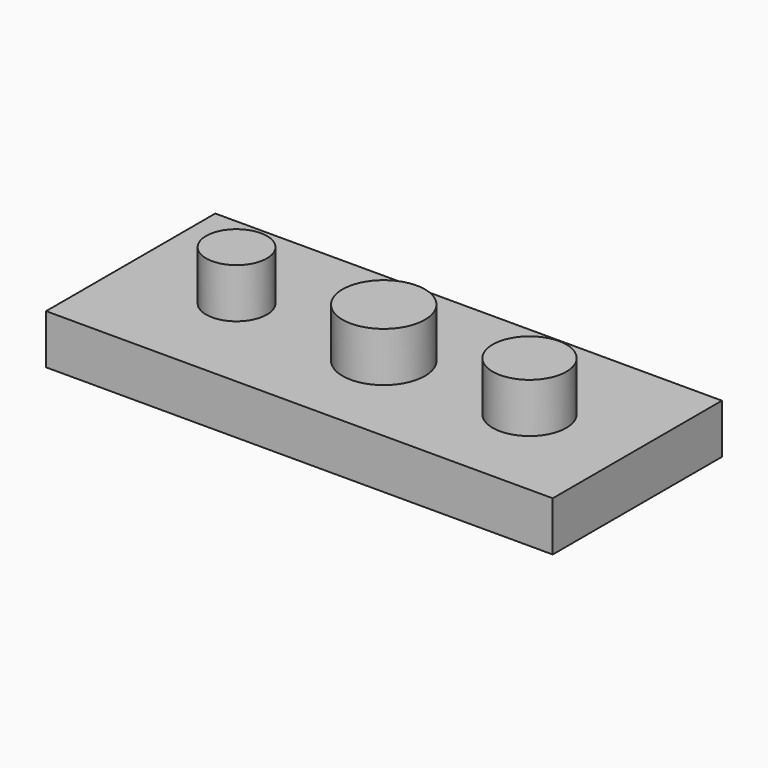
from build123d import *

# Parameters (mm, degrees)
F0_W     = 260.01095
F0_H     = 108.525954
F1_DEPTH = 25.4
F2_R     = 15.61088
F2_R_2   = 21.151668
F2_R_3   = 18.900746
F3_DEPTH = 25.4


with BuildPart() as f1:
    # F0 (on Top) → F1 (new body)
    with BuildSketch(Plane.XY):
        with Locations((5.983893, -12.487542)):
            Rectangle(F0_W, F0_H)
    extrude(amount=F1_DEPTH)

    # F2 (on face) → F3 (join)
    with BuildSketch(Plane.XY.offset(25.4)):
        with Locations((-68.63334, -13.820079)):
            Circle(F2_R)
        with Locations((8.536131, -15.846584)):
            Circle(F2_R_2)
        with Locations((83.193891, -15.645826)):
            Circle(F2_R_3)
    extrude(amount=F3_DEPTH)


solid = f1.part
